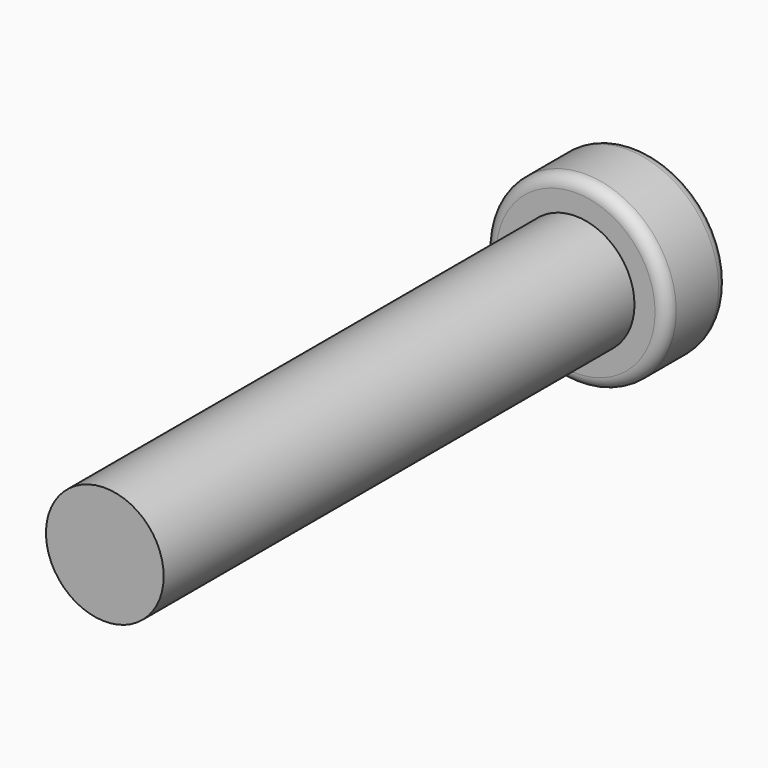
from build123d import *

# Parameters (mm, degrees)
FILLET_R     = 0.2
POCKET_DEPTH = 0.5
FILLET001_R  = 0.05


with BuildPart() as part:
    # Sketch → Revolution (revolve)
    with BuildSketch(Plane.XY):
        Polygon((0, 0), (0, 11.3), (1.55, 11.3), (1.55, 10), (1, 10), (1, 0), align=None)
    revolve(axis=Axis((0, 0, 0), (0, 1, 0)))

    # Fillet
    fillet_edges = [part.edges().sort_by_distance(p)[0] for p in [
        (-1.55, 11.3, 0),
        (-1.55, 10, 0),
    ]]
    fillet(fillet_edges, radius=FILLET_R)

    # Sketch001 (on Face1 of Fillet) → Pocket (cut)
    with BuildSketch(Plane(origin=(0, 11.3, 0), x_dir=(-1, 0, 0), z_dir=(0, 1, 0))):
        Polygon((0, 1), (0.3, 1), (0.3, 0.3), (1, 0.3), (1, -0.3), (0.3, -0.3), (0.3, -1), (0, -1), align=None)
    pocket = extrude(amount=-POCKET_DEPTH, mode=Mode.SUBTRACT)

    # Mirrored: Pocket across Sketch001 V_Axis
    add(pocket.mirror(Plane(origin=(0, 11.3, 0), x_dir=(0, 1, 0), z_dir=(-1, 0, 0))), mode=Mode.SUBTRACT)

    # Fillet001
    fillet001_edges = [part.edges().sort_by_distance(p)[0] for p in [
        (-0.65, 11.3, 0.3),
        (-1, 11.3, 0),
        (-0.65, 11.3, -0.3),
        (-0.3, 11.3, -0.65),
        (-0.15, 11.3, -1),
        (0.15, 11.3, -1),
        (0.3, 11.3, -0.65),
        (0.65, 11.3, -0.3),
        (0.65, 11.3, 0.3),
        (1, 11.3, 0),
        (0.3, 11.3, 0.65),
        (-0.3, 11.3, 0.65),
        (-0.15, 11.3, 1),
        (0.15, 11.3, 1),
    ]]
    fillet(fillet001_edges, radius=FILLET001_R)


solid = part.part
